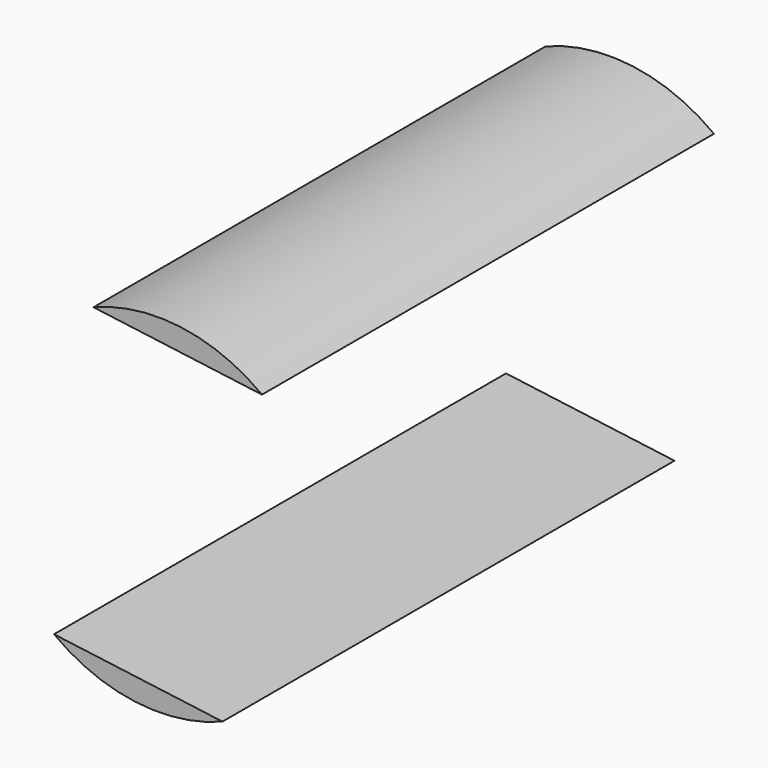
from build123d import *

# Parameters (mm, degrees)
F1_DEPTH = 127
F2_W     = 127
F2_H     = 68.1709660135
F3_DEPTH = 58.1727384787


with BuildPart() as f1:
    # F0 (on Front) → F1 (new body)
    with BuildSketch(Plane.XZ):
        with BuildLine():
            Line((42.5121692309, -11.5268108506), (51.3890309777, 56.0637353281))
            ThreePointArc((51.3890309777, 56.0637353281), (-10.7258537568, 29.8432775926), (42.5121692309, -11.5268108506))
        make_face()
    extrude(amount=F1_DEPTH)

    # F2 (on face) → F3 (cut, through all)
    with BuildSketch(Plane(origin=(43.2795192686, 0, -5.6840243308), x_dir=(0, 1, 0), z_dir=(0.9914858206, 0, -0.1302146979))):
        with Locations((-63.5, 28.1925227662)):
            Rectangle(F2_W, F2_H)
        with BuildLine():
            ThreePointArc((-87.3357319513, 29.1190243077), (-47.7013061981, 44.7384004713), (-78.4342339305, 15.2368789933))
            ThreePointArc((-78.4342339305, 15.2368789933), (-81.5932188788, 23.0062555604), (-87.3357319513, 29.1190243077))
        make_face(mode=Mode.SUBTRACT)
        with BuildLine():
            ThreePointArc((-87.3357319513, 29.1190243077), (-81.5932188788, 23.0062555604), (-78.4342339305, 15.2368789933))
            ThreePointArc((-78.4342339305, 15.2368789933), (-47.7013061981, 44.7384004713), (-87.3357319513, 29.1190243077))
        make_face()
        with BuildLine():
            ThreePointArc((-87.3357319513, 29.1190243077), (-81.5932188788, 23.0062555604), (-78.4342339305, 15.2368789933))
            ThreePointArc((-78.4342339305, 15.2368789933), (-47.7013061981, 44.7384004713), (-87.3357319513, 29.1190243077))
        make_face()
    extrude(amount=-F3_DEPTH, mode=Mode.SUBTRACT)


solid = f1.part
